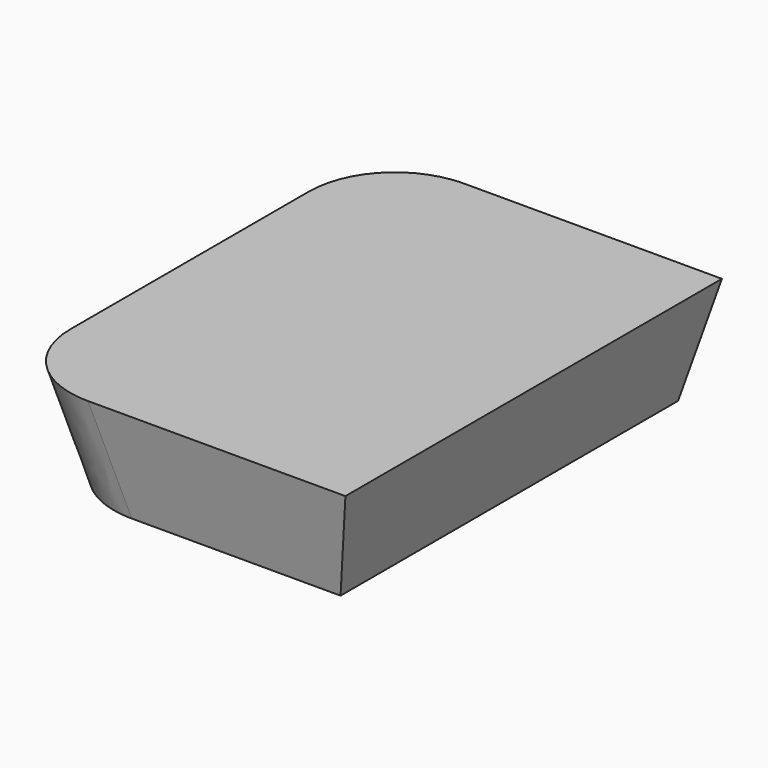
from build123d import *

# Parameters (mm, degrees)
F0_W     = 70
F0_H     = 100
F1_DEPTH = 25
F1_TAPER = -13
F2_R     = 21.0673227267


with BuildPart() as f1:
    # F0 (on Top) → F1 (new body)
    with BuildSketch(Plane.XY):
        Rectangle(F0_W, F0_H)
    extrude(amount=F1_DEPTH, taper=F1_TAPER)

    # F2
    f2_edges = [f1.edges().sort_by_distance(p)[0] for p in [
        (-37.885852, -52.885852, 12.5),
        (-37.885852, 52.885852, 12.5),
    ]]
    fillet(f2_edges, radius=F2_R)


solid = f1.part
